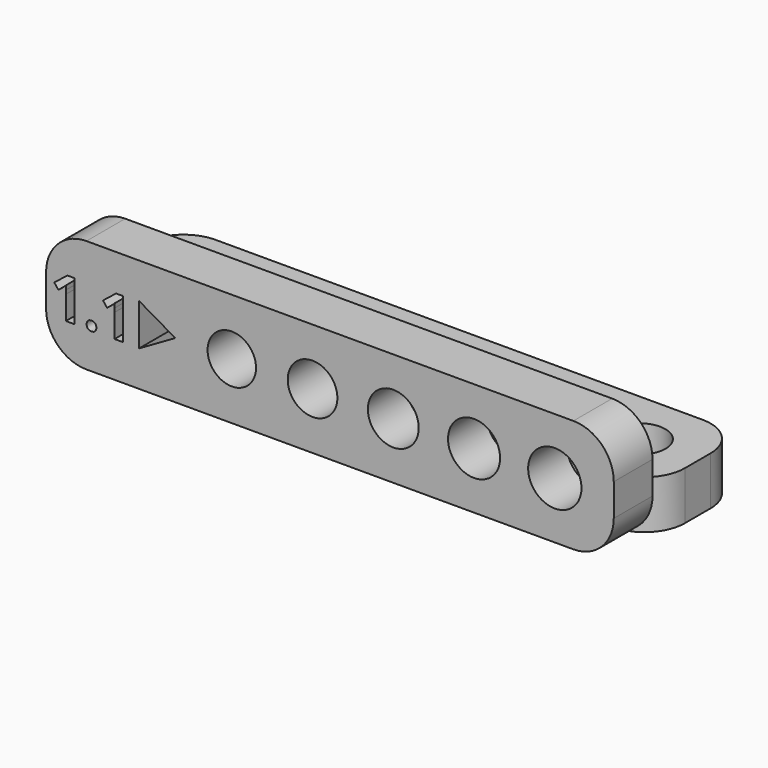
from build123d import *

# Parameters (mm, degrees)
F0_R     = 1.5
F0_R_2   = 1.5375
F0_R_3   = 1.575
F0_R_4   = 1.6125
F0_R_5   = 1.65
F1_DEPTH = 3
F2_DEPTH = 3
F3_ANGLE = 90


with BuildPart() as f1:
    # F0 (on Top) → F1 (new body)
    with BuildSketch(Plane.XY):
        with BuildLine():
            Line((21.15, 3.5), (-9, 3.5))
            ThreePointArc((-9, 3.5), (-10.767766953, 2.767766953), (-11.5, 1))
            Line((-11.5, 1), (-11.5, -1))
            ThreePointArc((-11.5, -1), (-10.767766953, -2.767766953), (-9, -3.5))
            Line((-9, -3.5), (21.15, -3.5))
            ThreePointArc((21.15, -3.5), (22.917766953, -2.767766953), (23.65, -1))
            Line((23.65, -1), (23.65, 1))
            ThreePointArc((23.65, 1), (22.917766953, 2.767766953), (21.15, 3.5))
        make_face()
        with BuildLine():
            add(Edge.make_bspline(
                [(-8.9083577369, -1.2454294498), (-8.9873608996, -1.1689037382), (-8.9873608996, -1.0296159322)],
                knots=[0, 0, 0, 1, 1, 1], degree=2))
            add(Edge.make_bspline(
                [(-8.9873608996, -1.0296159322), (-8.9873608996, -0.885373224), (-8.910009371, -0.8113249635)],
                knots=[0, 0, 0, 1, 1, 1], degree=2))
            add(Edge.make_bspline(
                [(-8.910009371, -0.8113249635), (-8.8326578423, -0.737276703), (-8.6845613213, -0.737276703)],
                knots=[0, 0, 0, 1, 1, 1], degree=2))
            add(Edge.make_bspline(
                [(-8.6845613213, -0.737276703), (-8.5419702472, -0.737276703), (-8.4637929015, -0.8129765975)],
                knots=[0, 0, 0, 1, 1, 1], degree=2))
            add(Edge.make_bspline(
                [(-8.4637929015, -0.8129765975), (-8.3856155558, -0.8886764921), (-8.3856155558, -1.0296159322)],
                knots=[0, 0, 0, 1, 1, 1], degree=2))
            add(Edge.make_bspline(
                [(-8.3856155558, -1.0296159322), (-8.3856155558, -1.1656004701), (-8.4646187185, -1.2437778158)],
                knots=[0, 0, 0, 1, 1, 1], degree=2))
            add(Edge.make_bspline(
                [(-8.4646187185, -1.2437778158), (-8.5436218812, -1.3219551614), (-8.6845613213, -1.3219551614)],
                knots=[0, 0, 0, 1, 1, 1], degree=2))
            add(Edge.make_bspline(
                [(-8.6845613213, -1.3219551614), (-8.8293545742, -1.3219551614), (-8.9083577369, -1.2454294498)],
                knots=[0, 0, 0, 1, 1, 1], degree=2))
        make_face(mode=Mode.SUBTRACT)
        with BuildLine():
            Line((-9.7443598454, 1.239729271), (-9.7443598454, -1.2757094077))
            Line((-9.7443598454, -1.2757094077), (-10.2761860138, -1.2757094077))
            Line((-10.2761860138, -1.2757094077), (-10.2761860138, 0.179930747))
            Line((-10.2761860138, 0.179930747), (-10.2706805669, 0.4188671415))
            Line((-10.2706805669, 0.4188671415), (-10.2624223966, 0.6803758682))
            add(Edge.make_bspline(
                [(-10.2624223966, 0.6803758682), (-10.3945531217, 0.5482451431), (-10.4463043224, 0.5069542915)],
                knots=[0, 0, 0, 1, 1, 1], degree=2))
            Line((-10.4463043224, 0.5069542915), (-10.7353402835, 0.2746244333))
            Line((-10.7353402835, 0.2746244333), (-10.991894108, 0.5944908969))
            Line((-10.991894108, 0.5944908969), (-10.1814923275, 1.239729271))
            Line((-10.1814923275, 1.239729271), (-9.7443598454, 1.239729271))
        make_face(mode=Mode.SUBTRACT)
        with BuildLine():
            Line((-6.7284760454, 1.239729271), (-6.7284760454, -1.2757094077))
            Line((-6.7284760454, -1.2757094077), (-7.2603022139, -1.2757094077))
            Line((-7.2603022139, -1.2757094077), (-7.2603022139, 0.179930747))
            Line((-7.2603022139, 0.179930747), (-7.254796767, 0.4188671415))
            Line((-7.254796767, 0.4188671415), (-7.2465385967, 0.6803758682))
            add(Edge.make_bspline(
                [(-7.2465385967, 0.6803758682), (-7.3786693218, 0.5482451431), (-7.4304205224, 0.5069542915)],
                knots=[0, 0, 0, 1, 1, 1], degree=2))
            Line((-7.4304205224, 0.5069542915), (-7.7194564835, 0.2746244333))
            Line((-7.7194564835, 0.2746244333), (-7.9760103081, 0.5944908969))
            Line((-7.9760103081, 0.5944908969), (-7.1656085276, 1.239729271))
            Line((-7.1656085276, 1.239729271), (-6.7284760454, 1.239729271))
        make_face(mode=Mode.SUBTRACT)
        Polygon((-5.75, 1.2990381057), (-3.5, 0), (-5.75, -1.2990381057), align=None, mode=Mode.SUBTRACT)
        Circle(F0_R, mode=Mode.SUBTRACT)
        with Locations((5, 0)):
            Circle(F0_R_2, mode=Mode.SUBTRACT)
        with Locations((10, 0)):
            Circle(F0_R_3, mode=Mode.SUBTRACT)
        with Locations((15, 0)):
            Circle(F0_R_4, mode=Mode.SUBTRACT)
        with Locations((20, 0)):
            Circle(F0_R_5, mode=Mode.SUBTRACT)
    extrude(amount=F1_DEPTH)


with BuildPart() as f2:
    # F0 (on Top) → F2 (new body)
    with BuildSketch(Plane.XY):
        with BuildLine():
            Line((21.15, 3.5), (-9, 3.5))
            ThreePointArc((-9, 3.5), (-10.767766953, 2.767766953), (-11.5, 1))
            Line((-11.5, 1), (-11.5, -1))
            ThreePointArc((-11.5, -1), (-10.767766953, -2.767766953), (-9, -3.5))
            Line((-9, -3.5), (21.15, -3.5))
            ThreePointArc((21.15, -3.5), (22.917766953, -2.767766953), (23.65, -1))
            Line((23.65, -1), (23.65, 1))
            ThreePointArc((23.65, 1), (22.917766953, 2.767766953), (21.15, 3.5))
        make_face()
        with BuildLine():
            add(Edge.make_bspline(
                [(-8.9083577369, -1.2454294498), (-8.9873608996, -1.1689037382), (-8.9873608996, -1.0296159322)],
                knots=[0, 0, 0, 1, 1, 1], degree=2))
            add(Edge.make_bspline(
                [(-8.9873608996, -1.0296159322), (-8.9873608996, -0.885373224), (-8.910009371, -0.8113249635)],
                knots=[0, 0, 0, 1, 1, 1], degree=2))
            add(Edge.make_bspline(
                [(-8.910009371, -0.8113249635), (-8.8326578423, -0.737276703), (-8.6845613213, -0.737276703)],
                knots=[0, 0, 0, 1, 1, 1], degree=2))
            add(Edge.make_bspline(
                [(-8.6845613213, -0.737276703), (-8.5419702472, -0.737276703), (-8.4637929015, -0.8129765975)],
                knots=[0, 0, 0, 1, 1, 1], degree=2))
            add(Edge.make_bspline(
                [(-8.4637929015, -0.8129765975), (-8.3856155558, -0.8886764921), (-8.3856155558, -1.0296159322)],
                knots=[0, 0, 0, 1, 1, 1], degree=2))
            add(Edge.make_bspline(
                [(-8.3856155558, -1.0296159322), (-8.3856155558, -1.1656004701), (-8.4646187185, -1.2437778158)],
                knots=[0, 0, 0, 1, 1, 1], degree=2))
            add(Edge.make_bspline(
                [(-8.4646187185, -1.2437778158), (-8.5436218812, -1.3219551614), (-8.6845613213, -1.3219551614)],
                knots=[0, 0, 0, 1, 1, 1], degree=2))
            add(Edge.make_bspline(
                [(-8.6845613213, -1.3219551614), (-8.8293545742, -1.3219551614), (-8.9083577369, -1.2454294498)],
                knots=[0, 0, 0, 1, 1, 1], degree=2))
        make_face(mode=Mode.SUBTRACT)
        with BuildLine():
            Line((-9.7443598454, 1.239729271), (-9.7443598454, -1.2757094077))
            Line((-9.7443598454, -1.2757094077), (-10.2761860138, -1.2757094077))
            Line((-10.2761860138, -1.2757094077), (-10.2761860138, 0.179930747))
            Line((-10.2761860138, 0.179930747), (-10.2706805669, 0.4188671415))
            Line((-10.2706805669, 0.4188671415), (-10.2624223966, 0.6803758682))
            add(Edge.make_bspline(
                [(-10.2624223966, 0.6803758682), (-10.3945531217, 0.5482451431), (-10.4463043224, 0.5069542915)],
                knots=[0, 0, 0, 1, 1, 1], degree=2))
            Line((-10.4463043224, 0.5069542915), (-10.7353402835, 0.2746244333))
            Line((-10.7353402835, 0.2746244333), (-10.991894108, 0.5944908969))
            Line((-10.991894108, 0.5944908969), (-10.1814923275, 1.239729271))
            Line((-10.1814923275, 1.239729271), (-9.7443598454, 1.239729271))
        make_face(mode=Mode.SUBTRACT)
        with BuildLine():
            Line((-6.7284760454, 1.239729271), (-6.7284760454, -1.2757094077))
            Line((-6.7284760454, -1.2757094077), (-7.2603022139, -1.2757094077))
            Line((-7.2603022139, -1.2757094077), (-7.2603022139, 0.179930747))
            Line((-7.2603022139, 0.179930747), (-7.254796767, 0.4188671415))
            Line((-7.254796767, 0.4188671415), (-7.2465385967, 0.6803758682))
            add(Edge.make_bspline(
                [(-7.2465385967, 0.6803758682), (-7.3786693218, 0.5482451431), (-7.4304205224, 0.5069542915)],
                knots=[0, 0, 0, 1, 1, 1], degree=2))
            Line((-7.4304205224, 0.5069542915), (-7.7194564835, 0.2746244333))
            Line((-7.7194564835, 0.2746244333), (-7.9760103081, 0.5944908969))
            Line((-7.9760103081, 0.5944908969), (-7.1656085276, 1.239729271))
            Line((-7.1656085276, 1.239729271), (-6.7284760454, 1.239729271))
        make_face(mode=Mode.SUBTRACT)
        Polygon((-5.75, 1.2990381057), (-3.5, 0), (-5.75, -1.2990381057), align=None, mode=Mode.SUBTRACT)
        Circle(F0_R, mode=Mode.SUBTRACT)
        with Locations((5, 0)):
            Circle(F0_R_2, mode=Mode.SUBTRACT)
        with Locations((10, 0)):
            Circle(F0_R_3, mode=Mode.SUBTRACT)
        with Locations((15, 0)):
            Circle(F0_R_4, mode=Mode.SUBTRACT)
        with Locations((20, 0)):
            Circle(F0_R_5, mode=Mode.SUBTRACT)
    extrude(amount=F2_DEPTH)


with BuildPart() as f2_1:
    # F3: moved
    add(f2.part.rotate(Axis((6.075, -3.5, 0), (1, 0, 0)), F3_ANGLE))


solid = Compound([f1.part, f2_1.part])
